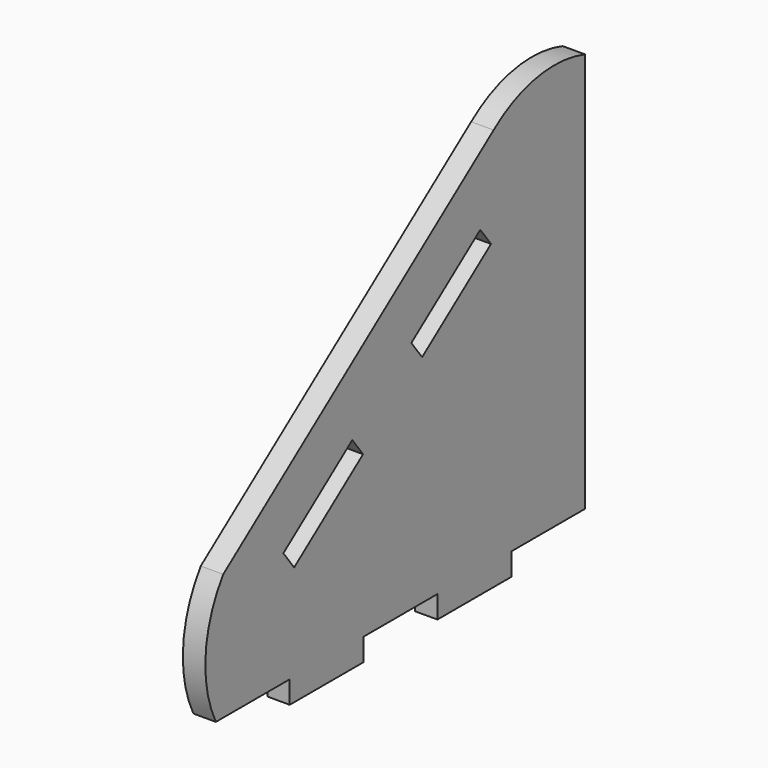
from build123d import *

# Parameters (mm, degrees)
F1_DEPTH = 18.542
F2_W     = 18.542
F2_H     = 76.2
F3_DEPTH = 18.542
F5_DEPTH = 25.4


with BuildPart() as f1:
    # F0 (on Right) → F1 (new body)
    with BuildSketch(Plane.YZ):
        with BuildLine():
            ThreePointArc((-199.645225, 104.186206), (-217.85746, 53.143737), (-207.238496, 0))
            Line((-207.238496, 0), (173.761504, 0))
            Line((173.761504, 0), (173.761504, 330.2))
            ThreePointArc((173.761504, 330.2), (124.464127, 333.733445), (79.332339, 313.588016))
            Line((79.332339, 313.588016), (-199.645225, 104.186206))
        make_face()
    extrude(amount=F1_DEPTH)

    # F2 (on face) → F3 (join)
    with BuildSketch(Plane(origin=(0, 0, 0), x_dir=(1, 0, 0), z_dir=(0, 0, -1))):
        with Locations((9.271, -59.461504)):
            Rectangle(F2_W, F2_H)
        with Locations((9.271, 92.938496)):
            Rectangle(F2_W, F2_H)
    extrude(amount=F3_DEPTH)

    # F4 (on face) → F5 (cut)
    with BuildSketch(Plane.YZ.offset(18.542)):
        Polygon((-5.565468, 193.369503), (5.565468, 178.540207), (76.664833, 231.907709), (65.533897, 246.737005), align=None)
        Polygon((-66.507781, 147.62593), (-137.607146, 94.258428), (-126.47621, 79.429131), (-55.376845, 132.796634), align=None)
    extrude(amount=-F5_DEPTH, mode=Mode.SUBTRACT)


solid = f1.part
